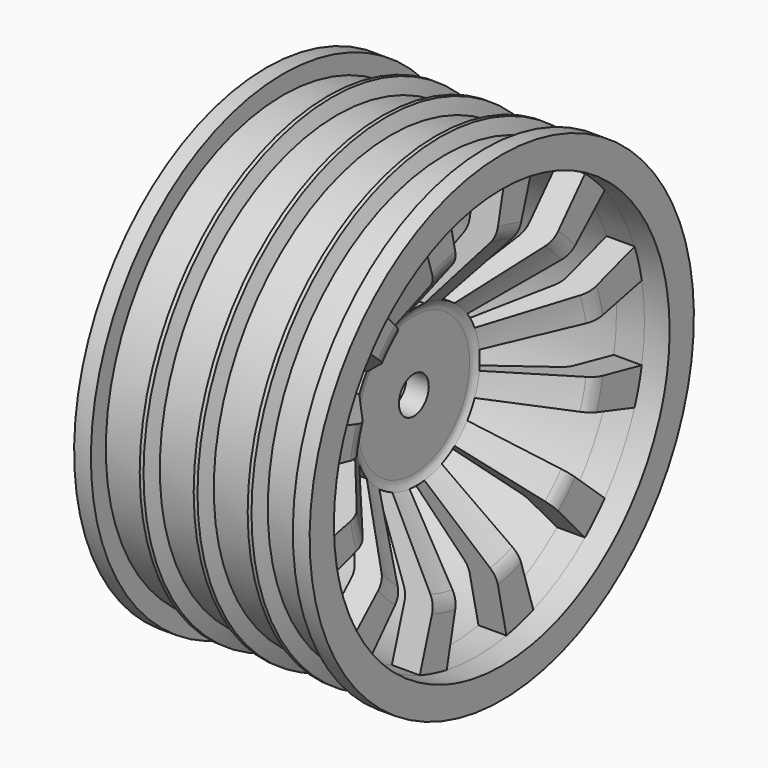
from build123d import *

# Parameters (mm, degrees)
POCKET_DEPTH       = 4
POCKET001_DEPTH    = 179.42055
POLARPATTERN_COUNT = 12


with BuildPart() as part:
    # Sketch → Revolution (revolve)
    with BuildSketch(Plane.XZ):
        with BuildLine():
            Line((-3.2, 8), (0.8, 8))
            ThreePointArc((0.8, 8), (1.518628, 8.183348), (2.061578, 8.688568))
            Line((2.061578, 8.688568), (6.52763, 15.632186))
            ThreePointArc((6.52763, 15.632186), (6.823601, 16.279794), (6.925, 16.984573))
            Line((6.925, 16.984573), (6.925, 22.5))
            Line((6.925, 22.5), (-12.625, 22.5))
            Line((-12.625, 22.5), (-12.625, 25.75))
            Line((-12.625, 25.75), (-10.825, 25.75))
            Line((-10.825, 25.75), (-10.825, 23.75))
            Line((-10.825, 23.75), (-6.5375, 23.75))
            Line((-6.5375, 23.75), (-5.991545, 25.25))
            Line((-5.991545, 25.25), (-5.583455, 25.25))
            Line((-5.583455, 25.25), (-5.0375, 23.75))
            Line((-5.0375, 23.75), (-0.75, 23.75))
            Line((-0.75, 23.75), (-0.204045, 25.25))
            Line((-0.204045, 25.25), (0.204045, 25.25))
            Line((0.204045, 25.25), (0.75, 23.75))
            Line((0.75, 23.75), (5.0375, 23.75))
            Line((5.0375, 23.75), (5.583455, 25.25))
            Line((5.583455, 25.25), (5.991545, 25.25))
            Line((5.991545, 25.25), (6.5375, 23.75))
            Line((6.5375, 23.75), (10.825, 23.75))
            Line((10.825, 23.75), (10.825, 25.75))
            Line((10.825, 25.75), (12.625, 25.75))
            Line((12.625, 25.75), (12.625, 22.5))
            Line((12.625, 22.5), (9.925, 22.5))
            Line((9.925, 22.5), (9.925, 17.139847))
            ThreePointArc((9.362768, 15.560273), (9.780252, 16.301522), (9.925, 17.139847))
            Line((9.362768, 15.560273), (3.537339, 8.413836))
            ThreePointArc((3.537339, 8.413836), (3.286849, 7.969087), (3.2, 7.466092))
            Line((3.2, 7.466092), (3.2, 2))
            Line((3.2, 2), (-3.2, 2))
            Line((-3.2, 2), (-3.2, 8))
        make_face()
    revolve(axis=Axis((0, 0, 0), (1, 0, 0)))

    # Sketch001 (on Face5 of Revolution) → Pocket (cut)
    with BuildSketch(Plane(origin=(-3.2, 0, 0), x_dir=(0, 0, -1), z_dir=(-1, 0, 0))):
        Polygon((6.5, 3.752777), (0, 7.505553), (-6.5, 3.752777), (-6.5, -3.752777), (0, -7.505553), (6.5, -3.752777), align=None)
    extrude(amount=-POCKET_DEPTH, mode=Mode.SUBTRACT)

    # Sketch002 (on Face8 of Pocket) → Pocket001 (cut, through all)
    with BuildSketch(Plane(origin=(12.625, 0, 0), x_dir=(0, 0, 1), z_dir=(1, 0, 0))):
        with BuildLine():
            Line((8.354199, 1), (22.14159, 4))
            ThreePointArc((22.14159, -4), (22.5, 0), (22.14159, 4))
            Line((22.14159, -4), (8.354199, -1))
            ThreePointArc((8.354199, -1), (8.413836, 0), (8.354199, 1))
        make_face()
    pocket001 = extrude(amount=-POCKET001_DEPTH, mode=Mode.SUBTRACT)

    # PolarPattern: Pocket001 ×12 about axis
    polarpattern_axis = Axis((12.625, 0, 0), (1, 0, 0))
    for i in range(1, POLARPATTERN_COUNT):
        add(pocket001.rotate(polarpattern_axis, i * 360 / POLARPATTERN_COUNT), mode=Mode.SUBTRACT)


solid = part.part
